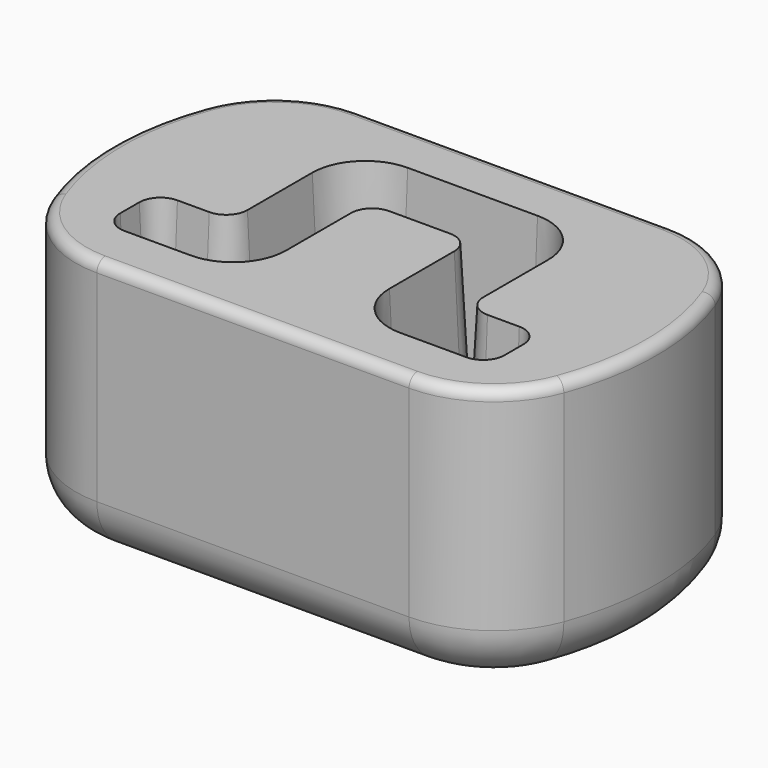
from build123d import *

# Parameters (mm, degrees)
F1_DEPTH = 25
F2_DEPTH = 20
F2_TAPER = 3
F3_R     = 1
F4_R     = 5


with BuildPart() as f1:
    # F0 (on Top) → F1 (new body)
    with BuildSketch(Plane.XY):
        with BuildLine():
            ThreePointArc((-14.723294392, 15.45), (-20.4366897043, 13.6571379912), (-24.1014191371, 8.9214228012))
            ThreePointArc((-24.1014191371, 8.9214228012), (-25.6996145734, 0), (-24.1014191371, -8.9214228012))
            ThreePointArc((-24.1014191371, -8.9214228012), (-20.4366897043, -13.6571379912), (-14.723294392, -15.45))
            Line((-14.723294392, -15.45), (14.723294392, -15.45))
            ThreePointArc((14.723294392, -15.45), (20.4366897043, -13.6571379912), (24.1014191371, -8.9214228012))
            ThreePointArc((24.1014191371, -8.9214228012), (25.6996145734, 0), (24.1014191371, 8.9214228012))
            ThreePointArc((24.1014191371, 8.9214228012), (20.4366897043, 13.6571379912), (14.723294392, 15.45))
            Line((14.723294392, 15.45), (-14.723294392, 15.45))
        make_face()
        with BuildLine():
            Line((-6.125, 10.45), (6.125, 10.45))
            ThreePointArc((6.125, 10.45), (9.6605339059, 8.9855339059), (11.125, 5.45))
            Line((11.125, 5.45), (11.125, -2.2))
            ThreePointArc((11.125, -2.2), (11.7107864376, -3.6142135624), (13.125, -4.2))
            Line((13.125, -4.2), (16.125, -4.2))
            ThreePointArc((16.125, -4.2), (17.5392135624, -4.7857864376), (18.125, -6.2))
            Line((18.125, -6.2), (18.125, -8.45))
            ThreePointArc((18.125, -8.45), (17.5392135624, -9.8642135624), (16.125, -10.45))
            Line((16.125, -10.45), (9.875, -10.45))
            ThreePointArc((9.875, -10.45), (6.3394660941, -8.9855339059), (4.875, -5.45))
            Line((4.875, -5.45), (4.875, 2.2))
            ThreePointArc((4.875, 2.2), (4.2892135624, 3.6142135624), (2.875, 4.2))
            Line((2.875, 4.2), (-2.875, 4.2))
            ThreePointArc((-2.875, 4.2), (-4.2892135624, 3.6142135624), (-4.875, 2.2))
            Line((-4.875, 2.2), (-4.875, -5.45))
            ThreePointArc((-4.875, -5.45), (-6.3394660941, -8.9855339059), (-9.875, -10.45))
            Line((-9.875, -10.45), (-16.125, -10.45))
            ThreePointArc((-16.125, -10.45), (-17.5392135624, -9.8642135624), (-18.125, -8.45))
            Line((-18.125, -8.45), (-18.125, -6.2))
            ThreePointArc((-18.125, -6.2), (-17.5392135624, -4.7857864376), (-16.125, -4.2))
            Line((-16.125, -4.2), (-13.125, -4.2))
            ThreePointArc((-13.125, -4.2), (-11.7107864376, -3.6142135624), (-11.125, -2.2))
            Line((-11.125, -2.2), (-11.125, 5.45))
            ThreePointArc((-11.125, 5.45), (-9.6605339059, 8.9855339059), (-6.125, 10.45))
        make_face(mode=Mode.SUBTRACT)
        with BuildLine():
            ThreePointArc((11.125, 5.45), (9.6605339059, 8.9855339059), (6.125, 10.45))
            Line((6.125, 10.45), (-6.125, 10.45))
            ThreePointArc((-6.125, 10.45), (-9.6605339059, 8.9855339059), (-11.125, 5.45))
            Line((-11.125, 5.45), (-11.125, -2.2))
            ThreePointArc((-11.125, -2.2), (-11.7107864376, -3.6142135624), (-13.125, -4.2))
            Line((-13.125, -4.2), (-16.125, -4.2))
            ThreePointArc((-16.125, -4.2), (-17.5392135624, -4.7857864376), (-18.125, -6.2))
            Line((-18.125, -6.2), (-18.125, -8.45))
            ThreePointArc((-18.125, -8.45), (-17.5392135624, -9.8642135624), (-16.125, -10.45))
            Line((-16.125, -10.45), (-9.875, -10.45))
            ThreePointArc((-9.875, -10.45), (-6.3394660941, -8.9855339059), (-4.875, -5.45))
            Line((-4.875, -5.45), (-4.875, 2.2))
            ThreePointArc((-4.875, 2.2), (-4.2892135624, 3.6142135624), (-2.875, 4.2))
            Line((-2.875, 4.2), (2.875, 4.2))
            ThreePointArc((2.875, 4.2), (4.2892135624, 3.6142135624), (4.875, 2.2))
            Line((4.875, 2.2), (4.875, -5.45))
            ThreePointArc((4.875, -5.45), (6.3394660941, -8.9855339059), (9.875, -10.45))
            Line((9.875, -10.45), (16.125, -10.45))
            ThreePointArc((16.125, -10.45), (17.5392135624, -9.8642135624), (18.125, -8.45))
            Line((18.125, -8.45), (18.125, -6.2))
            ThreePointArc((18.125, -6.2), (17.5392135624, -4.7857864376), (16.125, -4.2))
            Line((16.125, -4.2), (13.125, -4.2))
            ThreePointArc((13.125, -4.2), (11.7107864376, -3.6142135624), (11.125, -2.2))
            Line((11.125, -2.2), (11.125, 5.45))
        make_face()
    extrude(amount=-F1_DEPTH)

    # F0 (on Top) → F2 (cut)
    with BuildSketch(Plane.XY):
        with BuildLine():
            ThreePointArc((11.125, 5.45), (9.6605339059, 8.9855339059), (6.125, 10.45))
            Line((6.125, 10.45), (-6.125, 10.45))
            ThreePointArc((-6.125, 10.45), (-9.6605339059, 8.9855339059), (-11.125, 5.45))
            Line((-11.125, 5.45), (-11.125, -2.2))
            ThreePointArc((-11.125, -2.2), (-11.7107864376, -3.6142135624), (-13.125, -4.2))
            Line((-13.125, -4.2), (-16.125, -4.2))
            ThreePointArc((-16.125, -4.2), (-17.5392135624, -4.7857864376), (-18.125, -6.2))
            Line((-18.125, -6.2), (-18.125, -8.45))
            ThreePointArc((-18.125, -8.45), (-17.5392135624, -9.8642135624), (-16.125, -10.45))
            Line((-16.125, -10.45), (-9.875, -10.45))
            ThreePointArc((-9.875, -10.45), (-6.3394660941, -8.9855339059), (-4.875, -5.45))
            Line((-4.875, -5.45), (-4.875, 2.2))
            ThreePointArc((-4.875, 2.2), (-4.2892135624, 3.6142135624), (-2.875, 4.2))
            Line((-2.875, 4.2), (2.875, 4.2))
            ThreePointArc((2.875, 4.2), (4.2892135624, 3.6142135624), (4.875, 2.2))
            Line((4.875, 2.2), (4.875, -5.45))
            ThreePointArc((4.875, -5.45), (6.3394660941, -8.9855339059), (9.875, -10.45))
            Line((9.875, -10.45), (16.125, -10.45))
            ThreePointArc((16.125, -10.45), (17.5392135624, -9.8642135624), (18.125, -8.45))
            Line((18.125, -8.45), (18.125, -6.2))
            ThreePointArc((18.125, -6.2), (17.5392135624, -4.7857864376), (16.125, -4.2))
            Line((16.125, -4.2), (13.125, -4.2))
            ThreePointArc((13.125, -4.2), (11.7107864376, -3.6142135624), (11.125, -2.2))
            Line((11.125, -2.2), (11.125, 5.45))
        make_face()
    extrude(amount=-F2_DEPTH, taper=F2_TAPER, mode=Mode.SUBTRACT)

    # F3
    f3_edges = [f1.edges().sort_by_distance(p)[0] for p in [
        (0, -15.45, 0),
    ]]
    fillet(f3_edges, radius=F3_R)

    # F4
    f4_edges = [f1.edges().sort_by_distance(p)[0] for p in [
        (0, -15.45, -25),
    ]]
    fillet(f4_edges, radius=F4_R)


solid = f1.part
